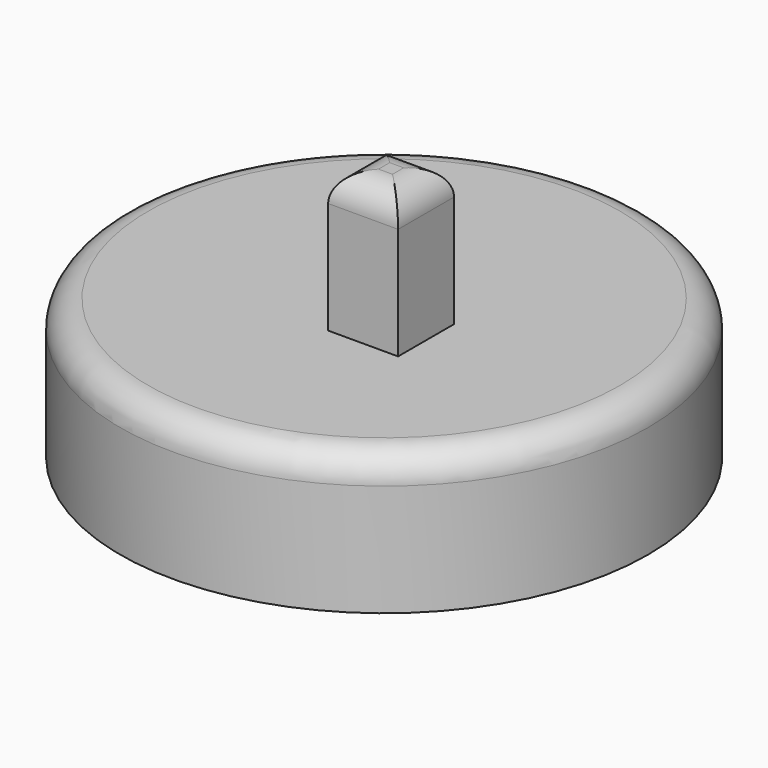
from build123d import *

# Parameters (mm, degrees)
F0_R     = 47.934671
F1_DEPTH = 25.4
F2_W     = 12.7
F2_H     = 12.7
F3_DEPTH = 25.4
F4_R     = 5.08


with BuildPart() as f1:
    # F0 (on Top) → F1 (new body)
    with BuildSketch(Plane.XY):
        Circle(F0_R)
    extrude(amount=F1_DEPTH)

    # F2 (on face) → F3 (join)
    with BuildSketch(Plane.XY.offset(25.4)):
        with Locations((6.35, -6.35)):
            Rectangle(F2_W, F2_H)
    extrude(amount=F3_DEPTH)

    # F4
    f4_edges = [f1.edges().sort_by_distance(p)[0] for p in [
        (-47.934671, 0, 25.4),
        (6.35, -12.7, 50.8),
        (12.7, -6.35, 50.8),
        (6.35, 0, 50.8),
        (0, -6.35, 50.8),
    ]]
    fillet(f4_edges, radius=F4_R)


solid = f1.part
